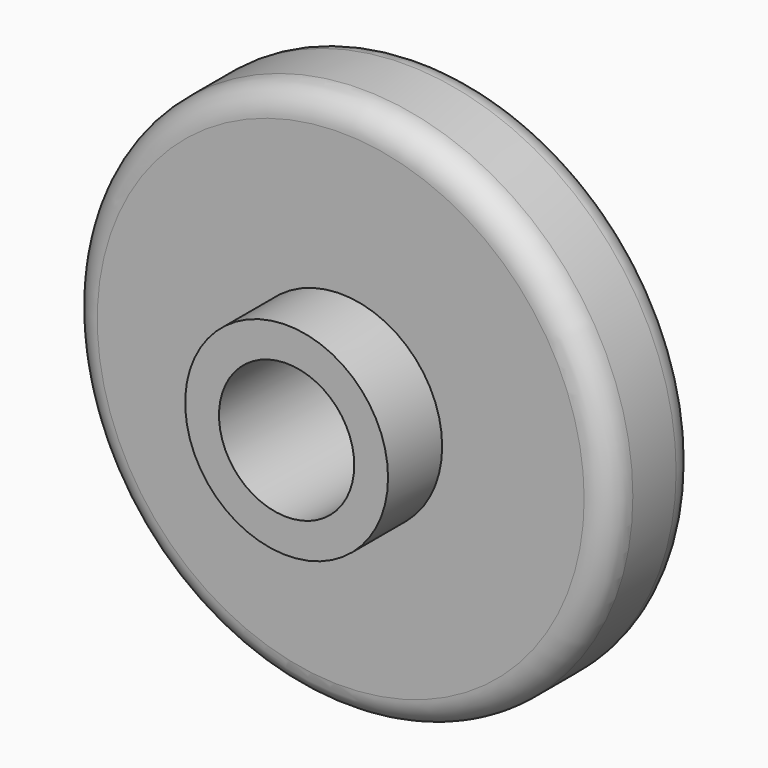
from build123d import *

# Parameters (mm, degrees)
F0_R     = 20
F0_R_2   = 7.5
F0_R_3   = 5
F1_DEPTH = 8
F2_DEPTH = 13
F3_R     = 2


with BuildPart() as f1:
    # F0 (on Front) → F1 (new body)
    with BuildSketch(Plane.XZ):
        Circle(F0_R)
        Circle(F0_R_2, mode=Mode.SUBTRACT)
        Circle(F0_R_2)
        Circle(F0_R_3, mode=Mode.SUBTRACT)
    extrude(amount=F1_DEPTH)

    # F0 (on Front) → F2 (join)
    with BuildSketch(Plane.XZ):
        Circle(F0_R_2)
        Circle(F0_R_3, mode=Mode.SUBTRACT)
    extrude(amount=F2_DEPTH)

    # F3
    f3_edges = [f1.edges().sort_by_distance(p)[0] for p in [
        (-20, 0, 0),
        (-20, -8, 0),
    ]]
    fillet(f3_edges, radius=F3_R)


solid = f1.part
